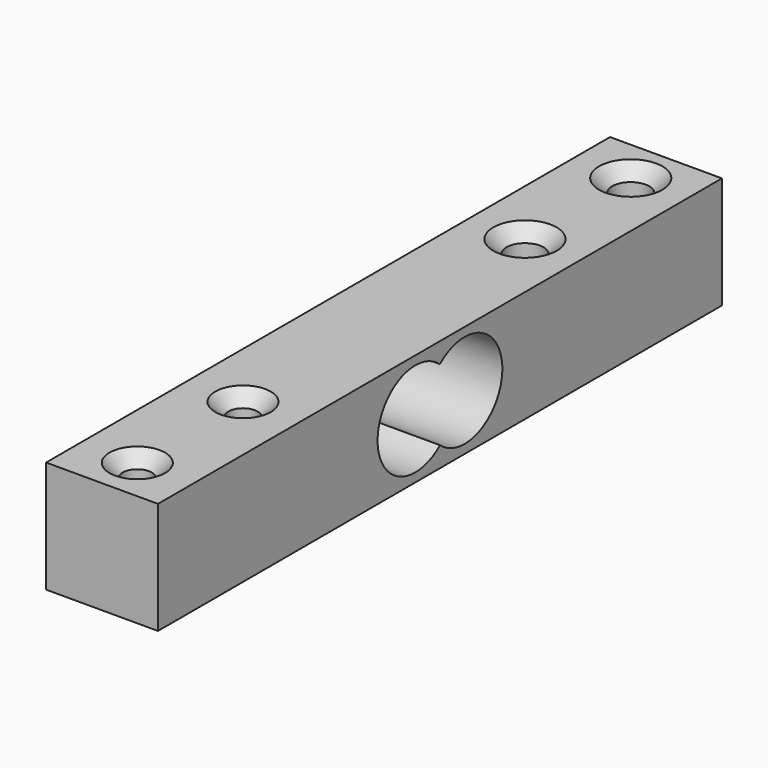
from build123d import *

# Parameters (mm, degrees)
F0_W     = 12.7
F0_H     = 80
F0_R     = 1.65
F0_R_2   = 2.1
F1_DEPTH = 12.7
F3_DEPTH = 12.701
F4_SIZE  = 1.5
F5_SIZE  = 1.5


with BuildPart() as f1:
    # F0 (on Top) → F1 (new body)
    with BuildSketch(Plane.XY):
        Rectangle(F0_W, F0_H)
        with Locations((0, -35)):
            Circle(F0_R, mode=Mode.SUBTRACT)
        with Locations((0, -20)):
            Circle(F0_R, mode=Mode.SUBTRACT)
        with Locations((0, 20)):
            Circle(F0_R_2, mode=Mode.SUBTRACT)
        with Locations((0, 35)):
            Circle(F0_R_2, mode=Mode.SUBTRACT)
    extrude(amount=F1_DEPTH)

    # F2 (on face) → F3 (cut, through all)
    with BuildSketch(Plane(origin=(-6.35, 0, 0), x_dir=(0, -1, 0), z_dir=(-1, 0, 0))):
        with BuildLine():
            ThreePointArc((0, 2.303705), (-1.85, 6.35), (0, 10.396295))
            ThreePointArc((0, 10.396295), (-8.85, 6.35), (0, 2.303705))
        make_face()
        with BuildLine():
            ThreePointArc((0, 10.396295), (1.365568, 8.574579), (1.85, 6.35))
            ThreePointArc((1.85, 6.35), (1.365568, 4.125421), (0, 2.303705))
            ThreePointArc((0, 2.303705), (5.724579, 1.484432), (8.85, 6.35))
            ThreePointArc((8.85, 6.35), (5.724579, 11.215568), (0, 10.396295))
        make_face()
        with BuildLine():
            ThreePointArc((0, 2.303705), (1.365568, 4.125421), (1.85, 6.35))
            ThreePointArc((1.85, 6.35), (1.365568, 8.574579), (0, 10.396295))
            ThreePointArc((0, 10.396295), (-1.85, 6.35), (0, 2.303705))
        make_face()
    extrude(amount=-F3_DEPTH, mode=Mode.SUBTRACT)

    # F4
    f4_edges = [f1.edges().sort_by_distance(p)[0] for p in [
        (-2.1, 35, 12.7),
        (-2.1, 20, 12.7),
        (-1.65, -20, 12.7),
        (-1.65, -35, 12.7),
    ]]
    chamfer(f4_edges, length=F4_SIZE)

    # F5
    f5_edges = [f1.edges().sort_by_distance(p)[0] for p in [
        (-2.1, 35, 0),
        (-2.1, 20, 0),
        (-1.65, -20, 0),
        (-1.65, -35, 0),
    ]]
    chamfer(f5_edges, length=F5_SIZE)


solid = f1.part
